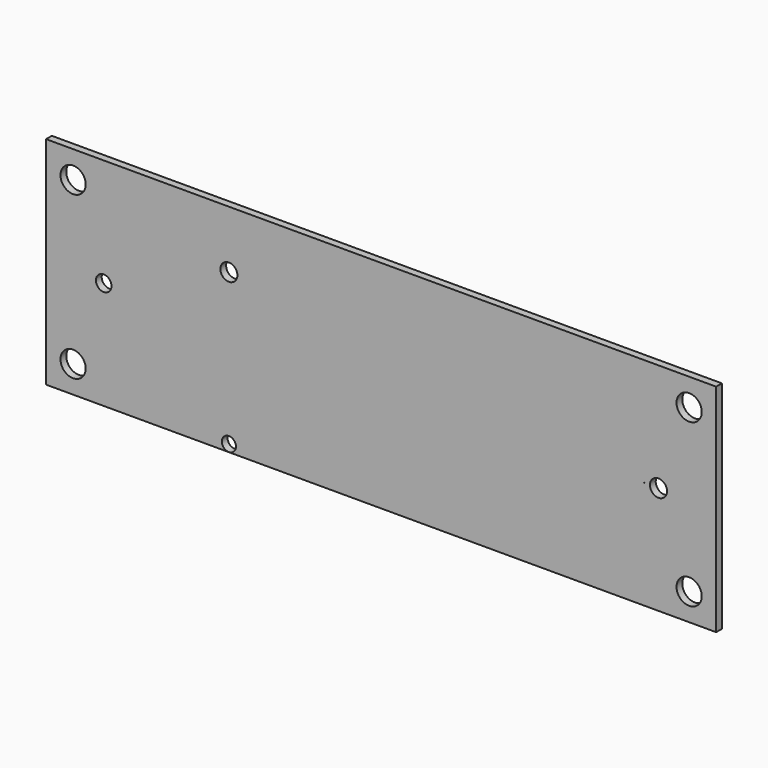
from build123d import *

# Parameters (mm, degrees)
F0_W     = 20
F0_H     = 12.774734
F0_R     = 1.75
F0_R_2   = 1.181266
F0_H_2   = 17.225266
F0_R_3   = 1.079972
F0_R_4   = 0.05
F0_R_5   = 1.186285
F0_R_6   = 0.980798
F1_DEPTH = 1


with BuildPart() as f1:
    # F0 (on Front) → F1 (new body)
    with BuildSketch(Plane.XZ):
        with Locations((-10, 6.387367)):
            Rectangle(F0_W, F0_H)
        with Locations((-16.25, 9.024734)):
            Circle(F0_R, mode=Mode.SUBTRACT)
        with Locations((10, 6.387367)):
            Rectangle(F0_W, F0_H)
        with Locations((5.371809, 4.774734)):
            Circle(F0_R_2, mode=Mode.SUBTRACT)
        with Locations((-10, -8.612633)):
            Rectangle(F0_W, F0_H_2)
        with Locations((-16.25, -13.475266)):
            Circle(F0_R, mode=Mode.SUBTRACT)
        with Locations((-12, -2.225266)):
            Circle(F0_R_3, mode=Mode.SUBTRACT)
        Polygon((73, 12.774734), (20, 12.774734), (20, 0), (20, -17.225266), (73, -17.225266), align=None)
        with Locations((69.25, -13.475266)):
            Circle(F0_R, mode=Mode.SUBTRACT)
        with Locations((63, -2.225266)):
            Circle(F0_R_4, mode=Mode.SUBTRACT)
        with Locations((65, -2.225266)):
            Circle(F0_R_5, mode=Mode.SUBTRACT)
        with Locations((69.25, 9.024734)):
            Circle(F0_R, mode=Mode.SUBTRACT)
        with Locations((10, -8.612633)):
            Rectangle(F0_W, F0_H_2)
        with Locations((5.371809, -16.225266)):
            Circle(F0_R_6, mode=Mode.SUBTRACT)
    extrude(amount=F1_DEPTH)


solid = f1.part
